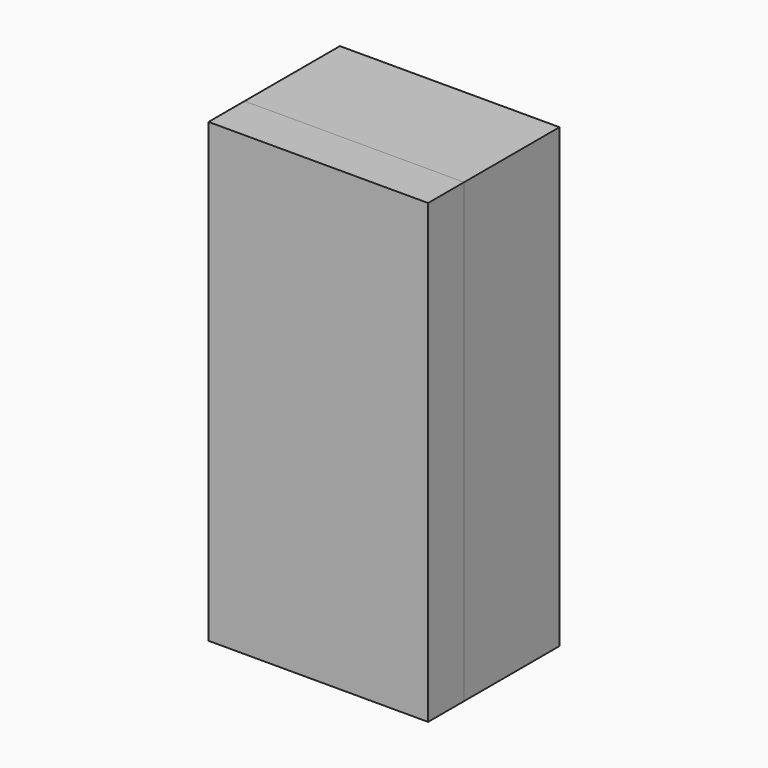
from build123d import *

# Parameters (mm, degrees)
F0_W     = 255.48645854
F0_H     = 226.697832346
F1_DEPTH = 2300
F2_DEPTH = 850
F3_DEPTH = 600


with BuildPart() as f1:
    # F0 (on Top) → F1 (new body)
    with BuildSketch(Plane.XY):
        Rectangle(F0_W, F0_H)
    extrude(amount=F1_DEPTH)

    # F2 (add): a face of the model
    f2_faces = [f1.faces().sort_by_distance(p)[0] for p in [
        (127.74322927, 0, 1150),
    ]]
    extrude(f2_faces, amount=F2_DEPTH)


with BuildPart() as f3:
    # F3 (new): a face of the model
    f3_faces = [f1.part.faces().sort_by_distance(p)[0] for p in [
        (425, 113.348916173, 1150),
    ]]
    extrude(f3_faces, amount=F3_DEPTH)


solid = Compound([f1.part, f3.part])
